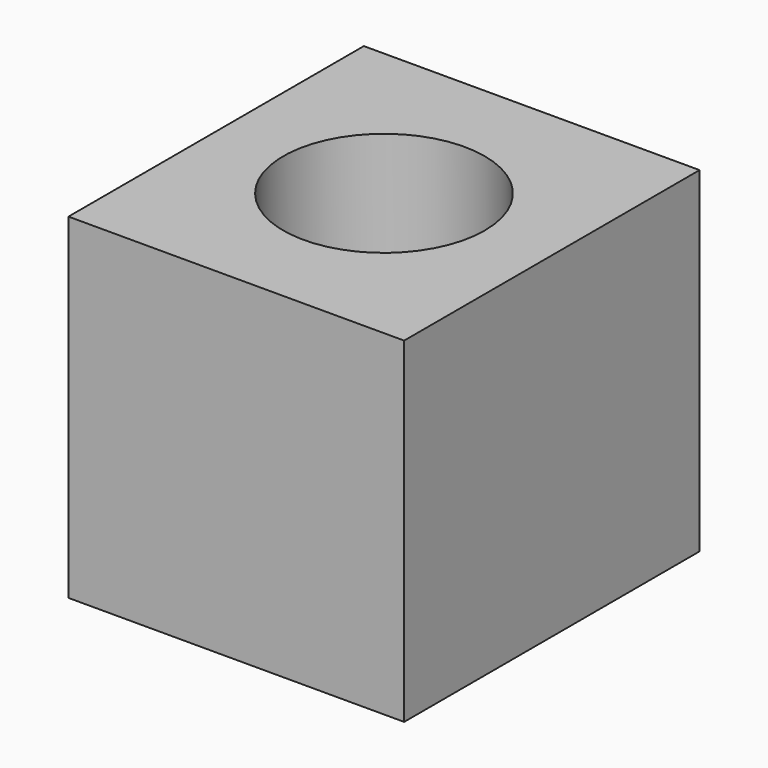
from build123d import *

# Parameters (mm, degrees)
F0_W     = 50
F0_H     = 50
F1_DEPTH = 55
F2_R     = 15
F3_DEPTH = 50


with BuildPart() as f1:
    # F0 (on Front) → F1 (new body)
    with BuildSketch(Plane.XZ):
        Rectangle(F0_W, F0_H)
    extrude(amount=F1_DEPTH)

    # F2 (on face) → F3 (cut)
    with BuildSketch(Plane.XY.offset(25)):
        with Locations((0, -27.5)):
            Circle(F2_R)
    extrude(amount=-F3_DEPTH, mode=Mode.SUBTRACT)

    # F4 (on Right) → F5 (revolve, cut)
    with BuildSketch(Plane.YZ):
        with BuildLine():
            Line((0, 0), (0, 10))
            ThreePointArc((0, 10), (-7.071068, 7.071068), (-10, 0))
            Line((-10, 0), (0, 0))
        make_face()
    revolve(axis=Axis((0, -5, 0), (0, -1, 0)), mode=Mode.SUBTRACT)


solid = f1.part
